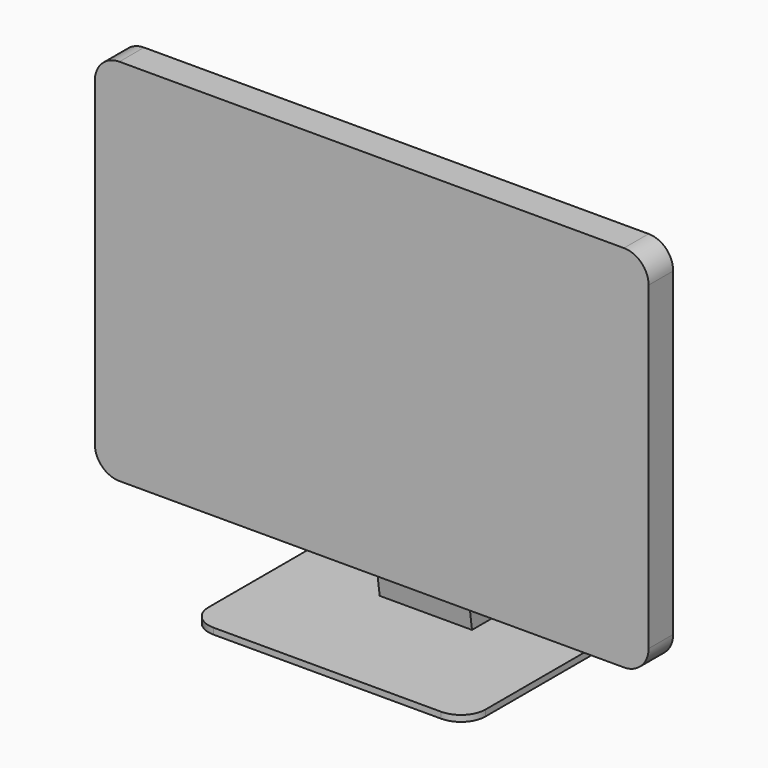
from build123d import *

# Parameters (mm, degrees)
F1_DEPTH = 25
F3_DEPTH = 37.5
F5_DEPTH = 5


with BuildPart() as f1:
    # F0 (on Front) → F1 (new body)
    with BuildSketch(Plane.XZ):
        with BuildLine():
            Line((205, 150), (-205, 150))
            ThreePointArc((-205, 150), (-219.142136, 144.142136), (-225, 130))
            Line((-225, 130), (-225, -130))
            ThreePointArc((-225, -130), (-219.142136, -144.142136), (-205, -150))
            Line((-205, -150), (205, -150))
            ThreePointArc((205, -150), (219.142136, -144.142136), (225, -130))
            Line((225, -130), (225, 130))
            ThreePointArc((225, 130), (219.142136, 144.142136), (205, 150))
        make_face()
    extrude(amount=F1_DEPTH)

    # F2 (on Right) → F3 (join, symmetric)
    with BuildSketch(Plane.YZ):
        with BuildLine():
            Line((60, -200), (21.404476, -6.935301))
            ThreePointArc((21.404476, -6.935301), (-15.255166, 16.53874), (5.187273, -21.893885))
            Line((5.187273, -21.893885), (30, -200))
            Line((30, -200), (60, -200))
        make_face()
    extrude(amount=F3_DEPTH, both=True)

    # F4 (on face) → F5 (join)
    with BuildSketch(Plane(origin=(0, 0, -200), x_dir=(1, 0, 0), z_dir=(0, 0, -1))):
        with BuildLine():
            Line((92.5, 70), (-92.5, 70))
            ThreePointArc((-92.5, 70), (-106.642136, 64.142136), (-112.5, 50))
            Line((-112.5, 50), (-112.5, -90))
            ThreePointArc((-112.5, -90), (-106.642136, -104.142136), (-92.5, -110))
            Line((-92.5, -110), (92.5, -110))
            ThreePointArc((92.5, -110), (106.642136, -104.142136), (112.5, -90))
            Line((112.5, -90), (112.5, 50))
            ThreePointArc((112.5, 50), (106.642136, 64.142136), (92.5, 70))
        make_face()
    extrude(amount=F5_DEPTH)


solid = f1.part
